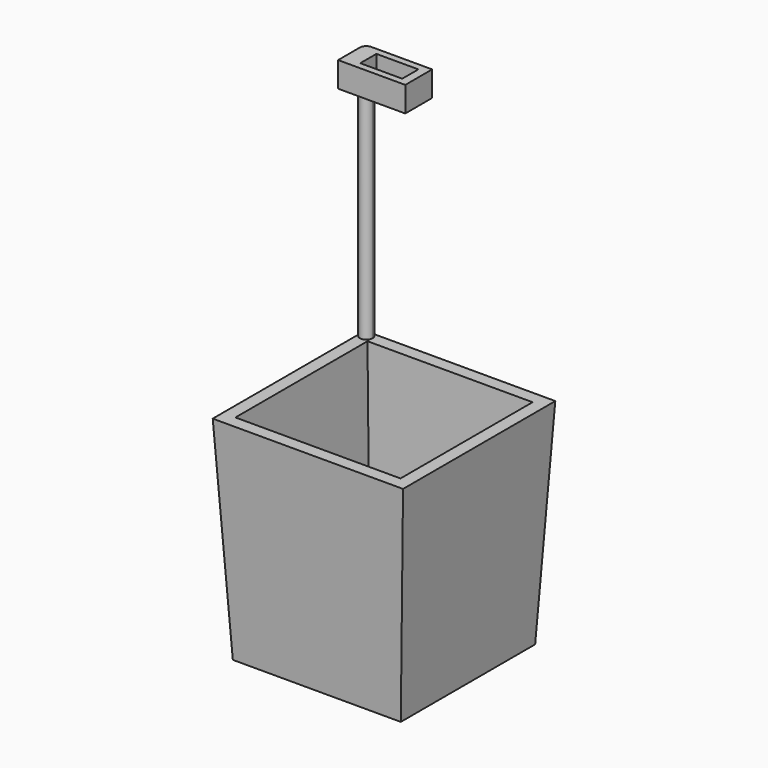
from build123d import *

# Parameters (mm, degrees)
F0_W     = 20
F0_H     = 20
F1_DEPTH = 25.4
F1_TAPER = -3
F2_T     = -1.5
F3_R     = 0.75
F4_DEPTH = 1.5010001
F6_DEPTH = 30
F7_W     = 5
F7_H     = 2.4
F8_DEPTH = 3


with BuildPart() as f1:
    # F0 (on Top) → F1 (new body)
    with BuildSketch(Plane.XY):
        Rectangle(F0_W, F0_H)
    extrude(amount=F1_DEPTH, taper=F1_TAPER)

    # F2
    f2_openings = [f1.faces().sort_by_distance(p)[0] for p in [
        (0, 0, 25.4),
    ]]
    offset(amount=F2_T, openings=f2_openings)

    # F3 (on face) → F4 (cut, through all)
    with BuildSketch(Plane.XY.offset(1.5)):
        with Locations((0, 5)):
            Circle(F3_R)
        with Locations((4.7552825815, 1.5450849719)):
            Circle(F3_R)
        with Locations((2.9389262615, -4.0450849719)):
            Circle(F3_R)
        with Locations((-2.9389262615, -4.0450849719)):
            Circle(F3_R)
        with Locations((-4.7552825815, 1.5450849719)):
            Circle(F3_R)
    extrude(amount=-F4_DEPTH, mode=Mode.SUBTRACT)

    # F5 (on face) → F6 (join)
    with BuildSketch(Plane.XY.offset(25.4)):
        with BuildLine():
            ThreePointArc((-11.3311575938, 10.5801283388), (-10.5801283366, 9.8290990748), (-9.8290990748, 10.5801283343))
            ThreePointArc((-9.8290990748, 10.5801283343), (-10.049070452, 11.1111862166), (-10.5801283343, 11.3311575938))
            ThreePointArc((-10.5801283343, 11.3311575938), (-11.111186215, 11.1111862181), (-11.3311575938, 10.5801283388))
        make_face()
    extrude(amount=F6_DEPTH)

    # F7 (on face) → F8 (join)
    with BuildSketch(Plane.XY.offset(55.4)):
        with BuildLine():
            Line((-3.3311575938, 11.3311575938), (-10.5801283343, 11.3311575938))
            ThreePointArc((-10.5801283343, 11.3311575938), (-10.049070452, 11.1111862166), (-9.8290990748, 10.5801283343))
            ThreePointArc((-9.8290990748, 10.5801283343), (-10.5801283343, 9.8290990748), (-11.3311575938, 10.5801283343))
            Line((-11.3311575938, 10.5801283343), (-11.3311575938, 7.3311575938))
            Line((-11.3311575938, 7.3311575938), (-3.3311575938, 7.3311575938))
            Line((-3.3311575938, 7.3311575938), (-3.3311575938, 11.3311575938))
        make_face()
        with Locations((-6.8311575938, 9.3311575938)):
            Rectangle(F7_W, F7_H, mode=Mode.SUBTRACT)
    extrude(amount=-F8_DEPTH)


solid = f1.part
